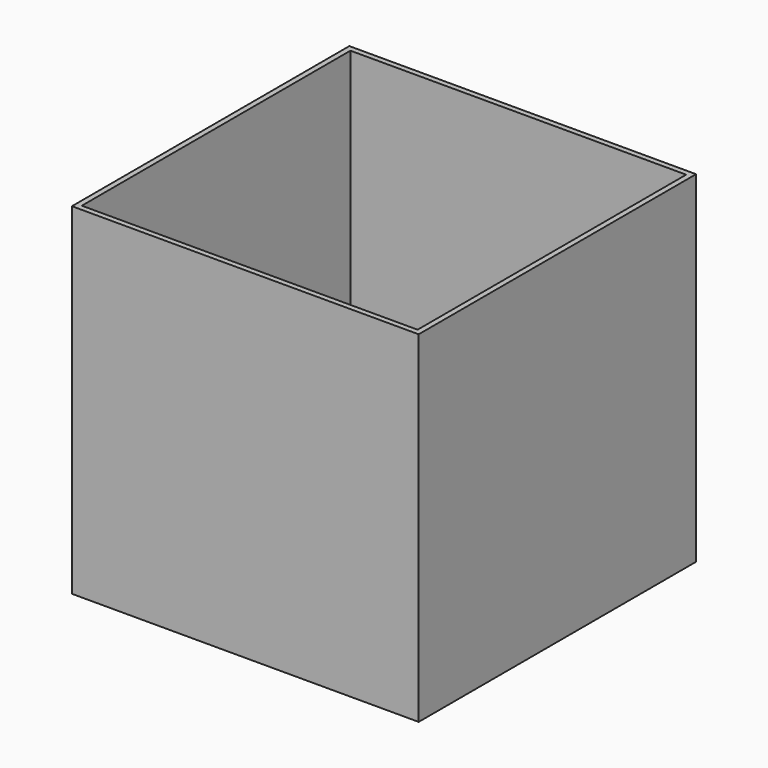
from build123d import *

# Parameters (mm, degrees)
F0_W     = 800
F0_H     = 800
F1_DEPTH = 400
F2_T     = -12.7
F3_W     = 1.108050679
F3_H     = 800
F3_W_2   = 798.891949321
F4_DEPTH = 12.7


with BuildPart() as f1:
    # F0 (on Front) → F1 (new body, symmetric)
    with BuildSketch(Plane.XZ):
        with Locations((67.3246156823, 84.0211848542)):
            Rectangle(F0_W, F0_H)
    extrude(amount=F1_DEPTH, both=True)

    # F2 (hollow: no face is removed)
    offset(amount=F2_T, mode=Mode.SUBTRACT)

    # F3 (on face) → F4 (cut)
    with BuildSketch(Plane.XY.offset(484.0211848542)):
        with Locations((-332.1213589782, 0)):
            Rectangle(F3_W, F3_H)
        with Locations((67.8786410218, 0)):
            Rectangle(F3_W_2, F3_H)
    extrude(amount=-F4_DEPTH, mode=Mode.SUBTRACT)


solid = f1.part
